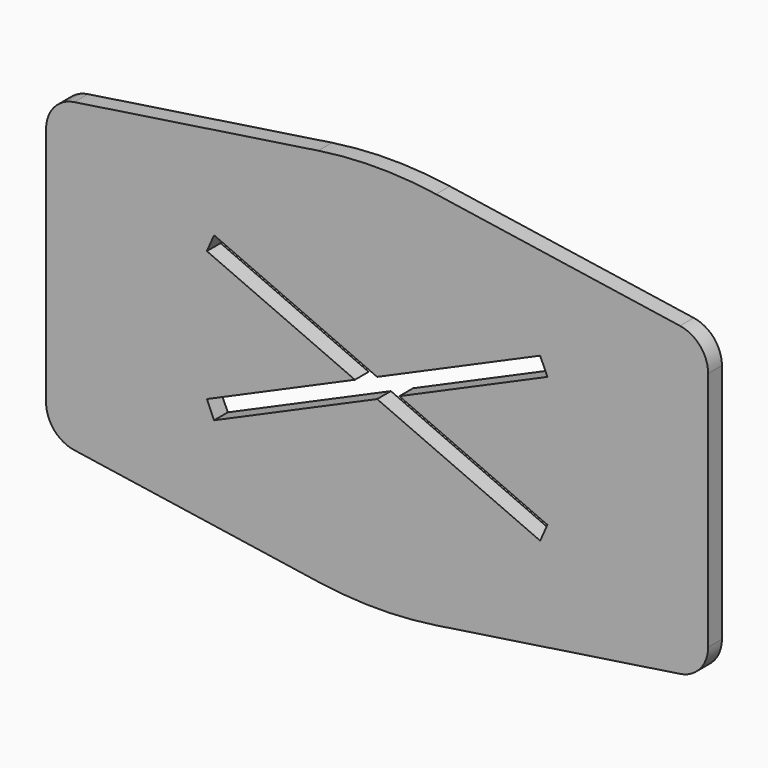
from build123d import *

# Parameters (mm, degrees)
F1_DEPTH = 26


with BuildPart() as f1:
    # F0 (on Front) → F1 (new body)
    with BuildSketch(Plane.XZ):
        with BuildLine():
            Line((-500, 181.940629), (-500, -181.940629))
            ThreePointArc((-500, -181.940629), (-487.887011, -214.568446), (-457.417023, -231.387447))
            Line((-457.417023, -231.387447), (-89.004272, -286.649359))
            ThreePointArc((-89.004272, -286.649359), (0, -293.287548), (89.004272, -286.649359))
            Line((89.004272, -286.649359), (457.417023, -231.387447))
            ThreePointArc((457.417023, -231.387447), (487.887011, -214.568446), (500, -181.940629))
            Line((500, -181.940629), (500, 181.940629))
            ThreePointArc((500, 181.940629), (487.887011, 214.568446), (457.417023, 231.387447))
            Line((457.417023, 231.387447), (89.004272, 286.649359))
            ThreePointArc((89.004272, 286.649359), (0, 293.287548), (-89.004272, 286.649359))
            Line((-89.004272, 286.649359), (-457.417023, 231.387447))
            ThreePointArc((-457.417023, 231.387447), (-487.887011, 214.568446), (-500, 181.940629))
        make_face()
        Polygon((-246.29619, 123.066799), (0, 14.747886), (246.29619, 123.066799), (257.16581, 98.351391), (33.53383, 0), (257.16581, -98.351391), (246.29619, -123.066799), (0, -14.747886), (-246.29619, -123.066799), (-257.16581, -98.351391), (-33.53383, 0), (-257.16581, 98.351391), align=None, mode=Mode.SUBTRACT)
    extrude(amount=F1_DEPTH)


solid = f1.part
